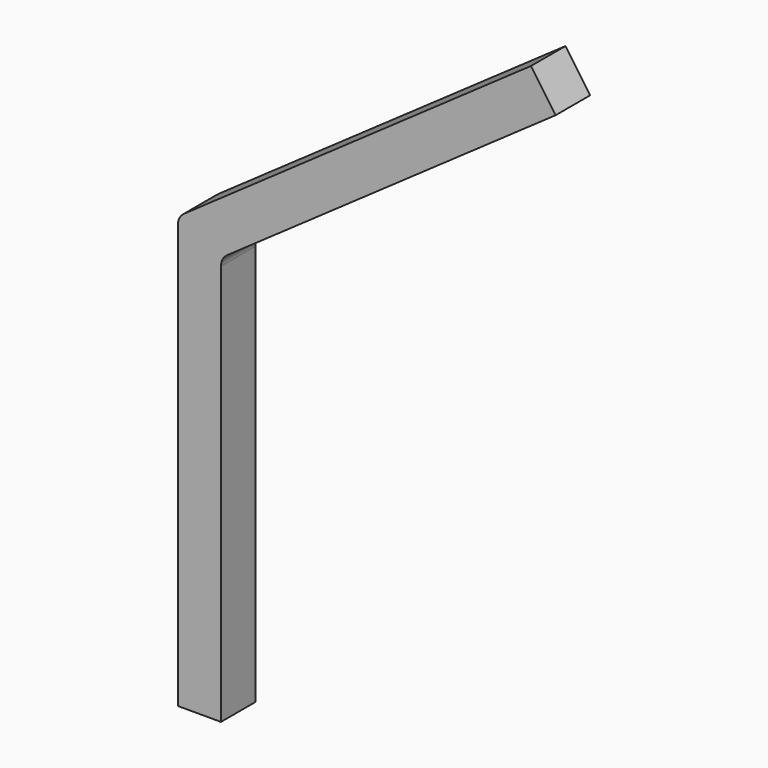
from build123d import *

# Parameters (mm, degrees)
F1_DEPTH = 3
F2_R     = 1


with BuildPart() as f1:
    # F0 (on Front) → F1 (new body)
    with BuildSketch(Plane.XZ):
        Polygon((0, 30), (0, 0), (3, 0), (3, 28.438299), (1.720729, 27.542544), align=None)
        Polygon((3, 30), (0, 30), (1.720729, 27.542544), (3, 28.438299), align=None)
        Polygon((24.574561, 47.207293), (0, 30), (3, 30), (3, 28.438299), (26.295291, 44.749837), align=None)
    extrude(amount=F1_DEPTH)

    # F2
    f2_edges = [f1.edges().sort_by_distance(p)[0] for p in [
        (0, -1.5, 30),
        (3, -1.5, 28.438299),
    ]]
    fillet(f2_edges, radius=F2_R)


solid = f1.part
